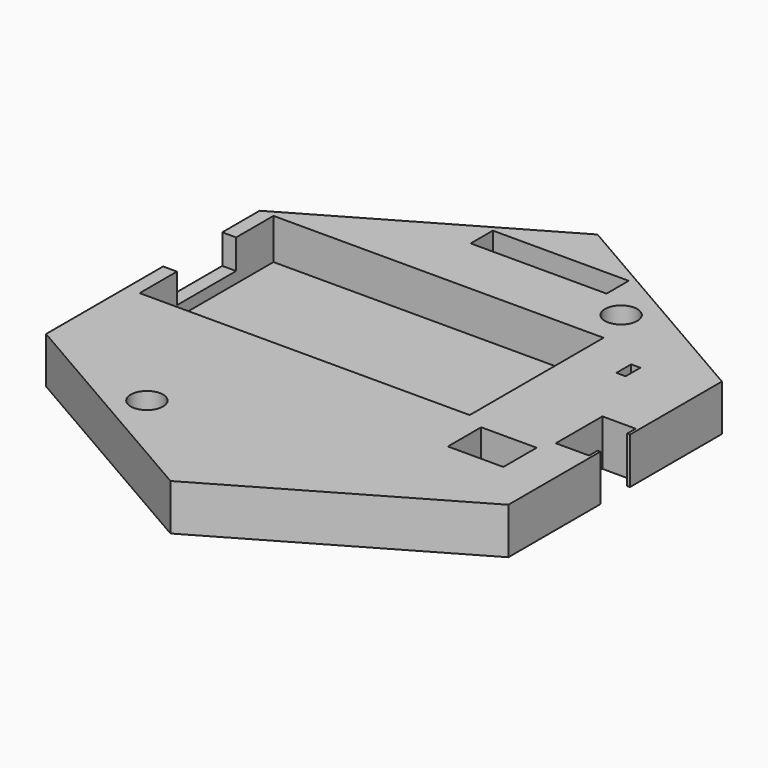
from build123d import *

# Parameters (mm, degrees)
PAD_DEPTH       = 5
SKETCH001_R     = 1.75
POCKET_DEPTH    = 5.001
SKETCH002_W     = 36.2
SKETCH002_H     = 26.2
POCKET001_DEPTH = 0.5
SKETCH003_R     = 6
POCKET002_DEPTH = 2.8
POCKET003_DEPTH = 2.8
SKETCH005_W     = 6
SKETCH005_H     = 4.5
POCKET004_DEPTH = 5.001
SKETCH006_W     = 14.7
SKETCH006_H     = 3
POCKET005_DEPTH = 5.001
SKETCH007_W     = 35.7
SKETCH007_H     = 18.1
POCKET006_DEPTH = 4.4
SKETCH008_W     = 1.5
SKETCH008_H     = 8
POCKET007_DEPTH = 3.2
POCKET008_DEPTH = 5.001
SKETCH010_W     = 1
SKETCH010_H     = 2
POCKET009_DEPTH = 5.001


with BuildPart() as part:
    # Sketch → Pad (new body)
    with BuildSketch(Plane.XY):
        Polygon((-25, 14.433757), (-25, -14.433757), (0, -28.867513), (25, -14.433757), (25, 14.433757), (0, 28.867513), align=None)
    extrude(amount=PAD_DEPTH)

    # Sketch001 → Pocket (cut, through all)
    with BuildSketch(Plane.XY.offset(5)):
        with Locations((-10.75, -18.619546)):
            Circle(SKETCH001_R)
        with Locations((10.75, 18.619546)):
            Circle(SKETCH001_R)
    extrude(amount=-POCKET_DEPTH, mode=Mode.SUBTRACT)

    # Sketch002 → Pocket001 (cut)
    with BuildSketch(Plane(origin=(0, 0, 0), x_dir=(1, 0, 0), z_dir=(0, 0, -1))):
        with Locations((-5.9, 0.9)):
            Rectangle(SKETCH002_W, SKETCH002_H)
    extrude(amount=-POCKET001_DEPTH, mode=Mode.SUBTRACT)

    # Sketch003 → Pocket002 (cut)
    with BuildSketch(Plane(origin=(0, 0, 0), x_dir=(1, 0, 0), z_dir=(0, 0, -1))):
        with Locations((0, 21)):
            Circle(SKETCH003_R)
    extrude(amount=-POCKET002_DEPTH, mode=Mode.SUBTRACT)

    # Sketch004 → Pocket003 (cut)
    with BuildSketch(Plane(origin=(0, 0, 0), x_dir=(1, 0, 0), z_dir=(0, 0, -1))):
        Polygon((0.841162, 24.139259), (8.085606, 22.198116), (6.403282, 15.919598), (-0.841162, 17.860741), align=None)
    extrude(amount=-POCKET003_DEPTH, mode=Mode.SUBTRACT)

    # Sketch005 → Pocket004 (cut, through all)
    with BuildSketch(Plane(origin=(0, 0, 0), x_dir=(1, 0, 0), z_dir=(0, 0, -1))):
        with Locations((17.35, 7.05)):
            Rectangle(SKETCH005_W, SKETCH005_H)
    extrude(amount=-POCKET004_DEPTH, mode=Mode.SUBTRACT)

    # Sketch006 → Pocket005 (cut, through all)
    with BuildSketch(Plane(origin=(0, 0, 0), x_dir=(1, 0, 0), z_dir=(0, 0, -1))):
        with Locations((0, -22.4)):
            Rectangle(SKETCH006_W, SKETCH006_H)
    extrude(amount=-POCKET005_DEPTH, mode=Mode.SUBTRACT)

    # Sketch007 → Pocket006 (cut)
    with BuildSketch(Plane.XY.offset(5)):
        with Locations((-5.65, 5.383757)):
            Rectangle(SKETCH007_W, SKETCH007_H)
    extrude(amount=-POCKET006_DEPTH, mode=Mode.SUBTRACT)

    # Sketch008 → Pocket007 (cut)
    with BuildSketch(Plane.XY.offset(5)):
        with Locations((-24.25, 5.383757)):
            Rectangle(SKETCH008_W, SKETCH008_H)
    extrude(amount=-POCKET007_DEPTH, mode=Mode.SUBTRACT)

    # Sketch009 → Pocket008 (cut, through all)
    with BuildSketch(Plane(origin=(0, 0, 0), x_dir=(1, 0, 0), z_dir=(0, 0, -1))):
        Polygon((21.1, 3.15), (24.7, 3.15), (24.7, 2), (25.4, 2), (25.4, -2), (24.7, -2), (24.7, -3.15), (21.1, -3.15), align=None)
    extrude(amount=-POCKET008_DEPTH, mode=Mode.SUBTRACT)

    # Sketch010 → Pocket009 (cut, through all)
    with BuildSketch(Plane(origin=(0, 0, 0), x_dir=(1, 0, 0), z_dir=(0, 0, -1))):
        with Locations((17.55, -11.1)):
            Rectangle(SKETCH010_W, SKETCH010_H)
    extrude(amount=-POCKET009_DEPTH, mode=Mode.SUBTRACT)


solid = part.part
